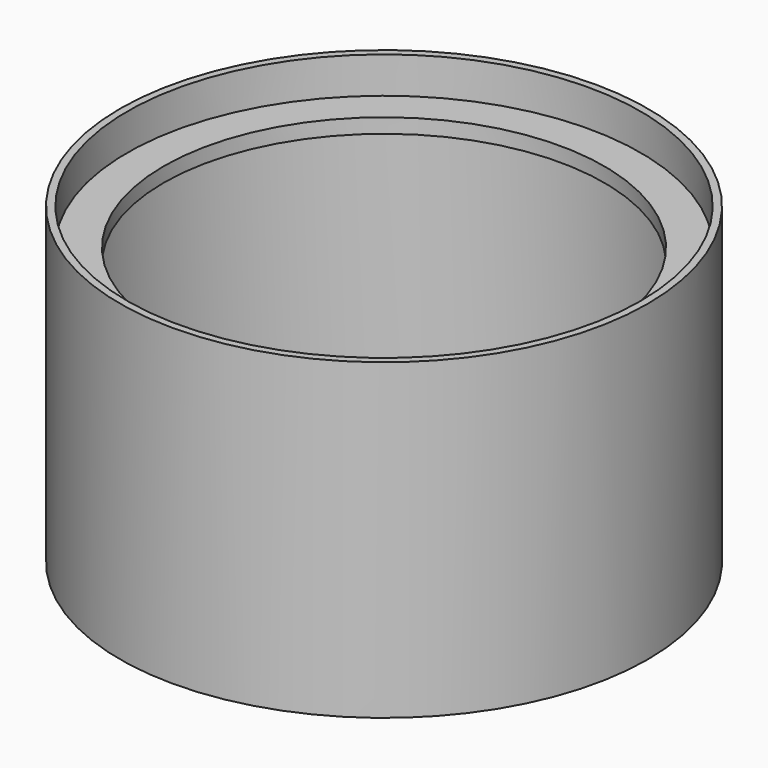
from build123d import *

# Parameters (mm, degrees)
F0_R     = 36.25
F1_DEPTH = 43
F2_R     = 35.25
F3_DEPTH = 39
F5_R     = 36.25
F5_R_2   = 30.25
F6_DEPTH = 2
F7_W     = 7.17
F7_H     = 26
F8_DEPTH = 43.001


with BuildPart() as f1:
    # F0 (on Top) → F1 (new body)
    with BuildSketch(Plane.XY):
        Circle(F0_R)
    extrude(amount=F1_DEPTH)

    # F2 (on face) → F3 (cut)
    with BuildSketch(Plane.XY.offset(43)):
        Circle(F2_R)
    extrude(amount=-F3_DEPTH, mode=Mode.SUBTRACT)

    # F5 (on offset) → F6 (join)
    with BuildSketch(Plane.XY.offset(38)):
        Circle(F5_R)
        Circle(F5_R_2, mode=Mode.SUBTRACT)
    extrude(amount=-F6_DEPTH)

    # F7 (on Top) → F8 (cut, through all)
    with BuildSketch(Plane.XY):
        Rectangle(F7_W, F7_H)
    extrude(amount=F8_DEPTH, mode=Mode.SUBTRACT)


solid = f1.part
